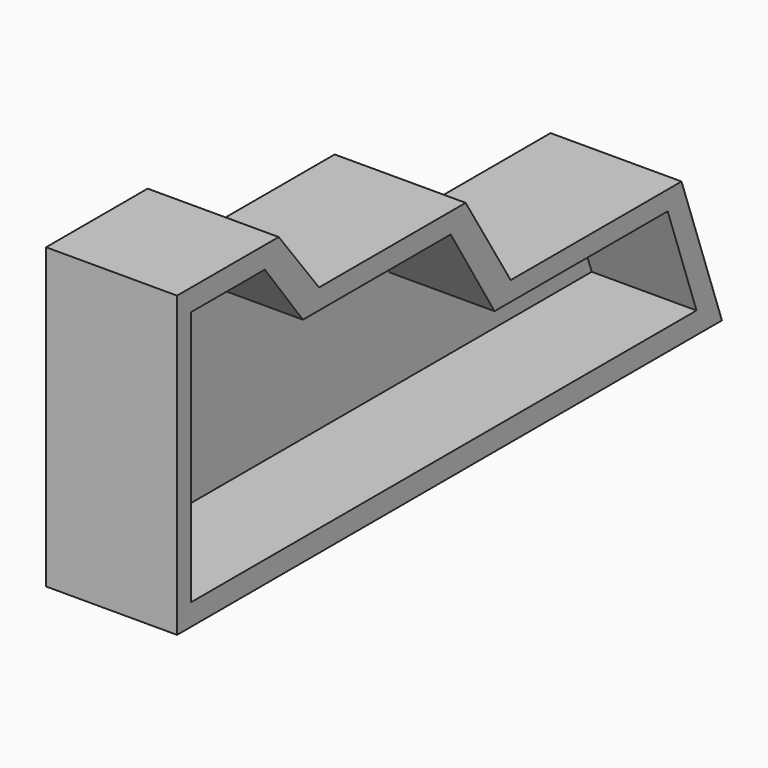
from build123d import *

# Parameters (mm, degrees)
F1_DEPTH  = 25.4
F3_DEPTH  = 25.4
F5_DEPTH  = 25.4
F7_DEPTH  = 5.08
F10_DEPTH = 5.08
F11_DEPTH = 5.08


with BuildPart() as f1:
    # F0 (on Right) → F1 (new body)
    with BuildSketch(Plane.YZ):
        Polygon((59.1682344675, -36.3681837916), (49.3768006563, -8.6724124849), (7.9730236903, -8.6724124849), (-2.9374300502, 8.9521678165), (-38.4663492441, 8.9521678165), (-48.2577830553, 21.5411558747), (-72.8762373328, 21.5411558747), (-72.8762373328, -30.4933227599), (-72.8762373328, -36.3681837916), align=None)
    extrude(amount=F1_DEPTH)

    # F2 (on Right) → F3 (cut)
    with BuildSketch(Plane.YZ):
        Polygon((-51.3350889087, 17.6245812327), (-67.5608962774, 17.3448249698), (-67.5608962774, -31.8920984864), (51.6148433089, -31.8920984864), (45.1804734766, -13.4282521904), (5.4552280344, -13.4282521904), (-6.2944926322, 5.0355945714), (-42.103163898, 5.0355945714), align=None)
    extrude(amount=-F3_DEPTH, mode=Mode.SUBTRACT)

    # F4 (on face) → F5 (cut)
    with BuildSketch(Plane.YZ.offset(25.4)):
        Polygon((-51.6148433089, 17.3448249698), (-69.5191770792, 17.3448249698), (-69.5191770792, -32.1718528867), (53.0136227608, -32.1718528867), (46.0203764525, -12.3909551978), (4.0564518422, -12.3909551978), (-6.574248895, 5.0355945714), (-42.3829182982, 5.0355945714), align=None)
    extrude(amount=-F5_DEPTH, mode=Mode.SUBTRACT)

    # F6 (on Right) → F7 (join)
    with BuildSketch(Plane.YZ):
        Polygon((53.0136190355, -31.6123440862), (45.7399822772, -12.5889861956), (4.3362067081, -12.8687405959), (-6.0147377662, 4.1963290423), (-42.1031676233, 4.1963290423), (-51.3350889087, 16.5055599064), (-68.9596682787, 16.5055599064), (-68.4001594782, -31.6123440862), align=None)
    extrude(amount=F7_DEPTH)

    # F8 (on Right) → F10 (join)
    with BuildSketch(Plane.YZ):
        Polygon((5.4552271031, -11.7497202009), (-7.4135139585, 4.7558392398), (-42.1031676233, 4.7558392398), (-50.7755763829, 17.0650705695), (-69.7989314795, 17.0650705695), (-69.7989314795, -30.213566497), (-69.7989314795, -32.1718528867), (53.0136190355, -32.1718528867), (46.8590036035, -11.7497202009), align=None)
    extrude(amount=F10_DEPTH)

    # F9 (on Right) → F11 (join)
    with BuildSketch(Plane.YZ):
        Polygon((56.2891028821, -33.4541499615), (49.1134338081, -13.0950817838), (49.1134338081, -10.6687908992), (7.4033048004, -10.6687908992), (-4.491108004, 6.529154256), (-40.5934713781, 6.529154256), (-49.6454611421, 18.8511218876), (-70.4428181052, 18.8511218876), (-70.4428181052, -33.4541499615), align=None)
    extrude(amount=F11_DEPTH)


solid = f1.part
